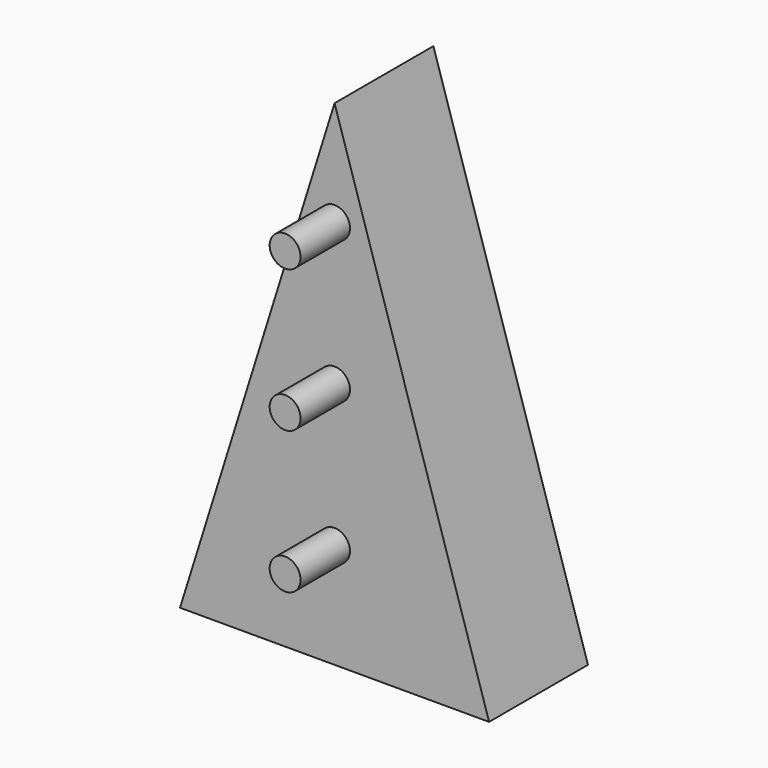
from build123d import *

# Parameters (mm, degrees)
F1_DEPTH = 20
F2_R     = 2.5
F3_DEPTH = 10


with BuildPart() as f1:
    # F0 (on Front) → F1 (new body)
    with BuildSketch(Plane.XZ):
        Polygon((25, -40), (0, 40), (-25, -40), align=None)
    extrude(amount=-F1_DEPTH)

    # F2 (on Front) → F3 (join)
    with BuildSketch(Plane.XZ):
        with Locations((0, 23)):
            Circle(F2_R)
        Circle(F2_R)
        with Locations((0, -23)):
            Circle(F2_R)
    extrude(amount=F3_DEPTH)


solid = f1.part
